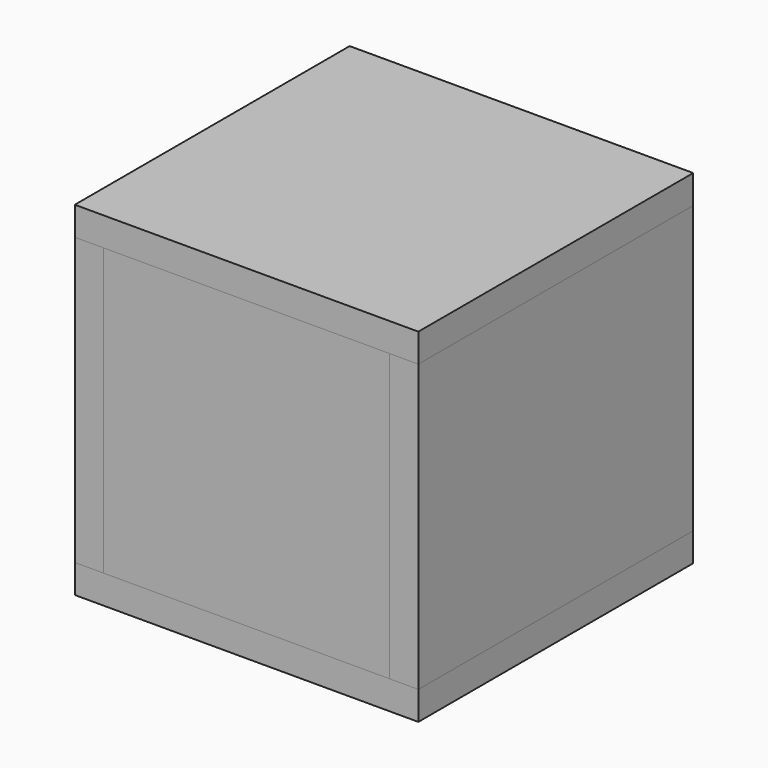
from build123d import *

# Parameters (mm, degrees)
F0_W      = 228.6
F0_H      = 228.6
F1_DEPTH  = 19.05
F3_DEPTH  = 190.5
F2_W      = 190.5
F2_H      = 19.05
F4_DEPTH  = 190.5
F5_DEPTH  = 190.5
F7_DEPTH  = 190.5
F8_DEPTH  = 190.5
F6_W      = 190.5
F6_H      = 190.5
F9_DEPTH  = 9.525
F9_FACE_W = 190.5
F9_FACE_H = 190.5
F3_FACE_W = 19.05
F3_FACE_H = 228.6
F4_FACE_W = 190.5
F4_FACE_H = 19.05
F8_FACE_W = 190.5
F8_FACE_H = 19.05
F7_FACE_W = 19.05
F7_FACE_H = 228.6
F10_DEPTH = 19.05
F2_H_2    = 190.5
F11_DEPTH = 9.525


with BuildPart() as f1:
    # F0 (on Top) → F1 (new body)
    with BuildSketch(Plane.XY):
        Rectangle(F0_W, F0_H)
    extrude(amount=F1_DEPTH)

    # F2 (on face) → F11 (join)
    with BuildSketch(Plane.XY.offset(19.05)):
        Rectangle(F2_W, F2_H_2)
    extrude(amount=F11_DEPTH)


with BuildPart() as f3:
    # F2 (on face) → F3 (new body)
    with BuildSketch(Plane.XY.offset(19.05)):
        Polygon((-114.3, 114.3), (-114.3, -114.3), (-95.25, -114.3), (-95.25, -95.25), (-95.25, 95.25), (-95.25, 114.3), align=None)
    extrude(amount=F3_DEPTH)


with BuildPart() as f4:
    # F2 (on face) → F4 (new body)
    with BuildSketch(Plane.XY.offset(19.05)):
        with Locations((0, 104.775)):
            Rectangle(F2_W, F2_H)
    extrude(amount=F4_DEPTH)


with BuildPart() as f5:
    # F2 (on face) → F5 (new body)
    with BuildSketch(Plane.XY.offset(19.05)):
        Polygon((95.25, -95.25), (95.25, -114.3), (114.3, -114.3), (114.3, 114.3), (95.25, 114.3), (95.25, 95.25), align=None)
    extrude(amount=F5_DEPTH)


with BuildPart() as f7:
    # F2 (on face) → F7 (new body)
    with BuildSketch(Plane.XY.offset(19.05)):
        Polygon((95.25, -95.25), (95.25, -114.3), (114.3, -114.3), (114.3, 114.3), (95.25, 114.3), (95.25, 95.25), align=None)
    extrude(amount=F7_DEPTH)


with BuildPart() as f8:
    # F2 (on face) → F8 (new body)
    with BuildSketch(Plane.XY.offset(19.05)):
        with Locations((0, -104.775)):
            Rectangle(F2_W, F2_H)
    extrude(amount=F8_DEPTH)


with BuildPart() as f9:
    # F6 (on face) → F9 (new body)
    with BuildSketch(Plane.XY.offset(209.55)):
        Rectangle(F6_W, F6_H)
    extrude(amount=-F9_DEPTH)

    # F9_face (on face) + F3_face (on face) + F4_face (on face) + F8_face (on face) + F7_face (on face) → F10 (join)
    with BuildSketch(Plane.XY.offset(209.55)):
        Rectangle(F9_FACE_W, F9_FACE_H)
    with BuildSketch(Plane(origin=(-104.775, 0, 209.55), x_dir=(1, 0, 0), z_dir=(0, 0, 1))):
        Rectangle(F3_FACE_W, F3_FACE_H)
    with BuildSketch(Plane(origin=(0, 104.775, 209.55), x_dir=(1, 0, 0), z_dir=(0, 0, 1))):
        Rectangle(F4_FACE_W, F4_FACE_H)
    with BuildSketch(Plane(origin=(0, -104.775, 209.55), x_dir=(1, 0, 0), z_dir=(0, 0, 1))):
        Rectangle(F8_FACE_W, F8_FACE_H)
    with BuildSketch(Plane(origin=(104.775, 0, 209.55), x_dir=(1, 0, 0), z_dir=(0, 0, 1))):
        Rectangle(F7_FACE_W, F7_FACE_H)
    extrude(amount=F10_DEPTH)


solid = Compound([f1.part, f3.part, f4.part, f5.part, f7.part, f8.part, f9.part])
